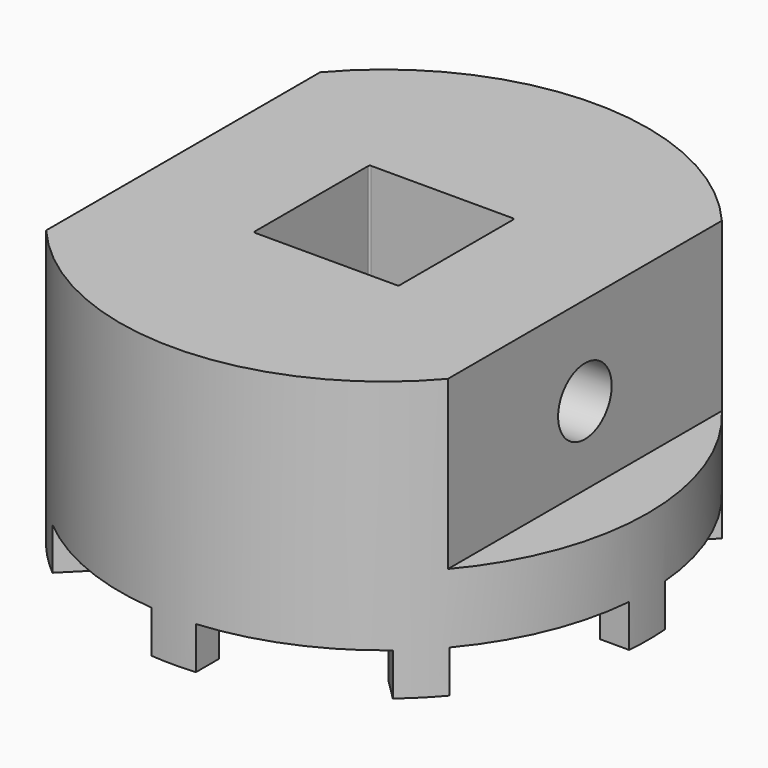
from build123d import *

# Parameters (mm, degrees)
F0_R      = 23.65
F1_DEPTH  = 25
F3_DEPTH  = 3.8
F5_DEPTH  = 15
F6_W      = 13
F6_H      = 13
F7_DEPTH  = 25.001
F8_R      = 0.15
F9_R      = 3
F10_DEPTH = 41.651


with BuildPart() as f1:
    # F0 (on Top) → F1 (new body)
    with BuildSketch(Plane.XY):
        Circle(F0_R)
    extrude(amount=F1_DEPTH)

    # F2 (on face) → F3 (cut)
    with BuildSketch(Plane(origin=(0, 0, 0), x_dir=(1, 0, 0), z_dir=(0, 0, -1))):
        with BuildLine():
            Line((-2, 20.954773), (-2, 23.565282))
            ThreePointArc((-2, 23.565282), (-9.050463, 21.849751), (-15.248957, 18.077384))
            Line((-15.248957, 18.077384), (-13.403048, 16.231475))
            ThreePointArc((-13.403048, 16.231475), (-8.055486, 19.447664), (-2, 20.954773))
        make_face()
        with BuildLine():
            ThreePointArc((21.05, 0), (21.02618, 1.001133), (20.954773, 2))
            ThreePointArc((20.954773, 2), (19.447664, 8.055486), (16.231475, 13.403048))
            ThreePointArc((16.231475, 13.403048), (14.884598, 14.884598), (13.403048, 16.231475))
            ThreePointArc((13.403048, 16.231475), (8.055486, 19.447664), (2, 20.954773))
            ThreePointArc((2, 20.954773), (0, 21.05), (-2, 20.954773))
            ThreePointArc((-2, 20.954773), (-8.055486, 19.447664), (-13.403048, 16.231475))
            ThreePointArc((-13.403048, 16.231475), (-14.884598, 14.884598), (-16.231475, 13.403048))
            ThreePointArc((-16.231475, 13.403048), (-19.447664, 8.055486), (-20.954773, 2))
            ThreePointArc((-20.954773, 2), (-21.05, 0), (-20.954773, -2))
            ThreePointArc((-20.954773, -2), (-19.447664, -8.055486), (-16.231475, -13.403048))
            ThreePointArc((-16.231475, -13.403048), (-14.884598, -14.884598), (-13.403048, -16.231475))
            ThreePointArc((-13.403048, -16.231475), (-8.055486, -19.447664), (-2, -20.954773))
            ThreePointArc((-2, -20.954773), (0, -21.05), (2, -20.954773))
            ThreePointArc((2, -20.954773), (8.055486, -19.447664), (13.403048, -16.231475))
            ThreePointArc((13.403048, -16.231475), (14.884598, -14.884598), (16.231475, -13.403048))
            ThreePointArc((16.231475, -13.403048), (19.447664, -8.055486), (20.954773, -2))
            ThreePointArc((20.954773, -2), (21.02618, -1.001133), (21.05, 0))
        make_face()
        with BuildLine():
            Line((-16.231475, 13.403048), (-18.077384, 15.248957))
            ThreePointArc((-18.077384, 15.248957), (-21.849751, 9.050463), (-23.565282, 2))
            Line((-23.565282, 2), (-20.954773, 2))
            ThreePointArc((-20.954773, 2), (-19.447664, 8.055486), (-16.231475, 13.403048))
        make_face()
        with BuildLine():
            ThreePointArc((-23.565282, -2), (-21.849751, -9.050463), (-18.077384, -15.248957))
            Line((-18.077384, -15.248957), (-16.231475, -13.403048))
            ThreePointArc((-16.231475, -13.403048), (-19.447664, -8.055486), (-20.954773, -2))
            Line((-20.954773, -2), (-23.565282, -2))
        make_face()
        with BuildLine():
            ThreePointArc((-15.248957, -18.077384), (-9.050463, -21.849751), (-2, -23.565282))
            Line((-2, -23.565282), (-2, -20.954773))
            ThreePointArc((-2, -20.954773), (-8.055486, -19.447664), (-13.403048, -16.231475))
            Line((-13.403048, -16.231475), (-15.248957, -18.077384))
        make_face()
        with BuildLine():
            ThreePointArc((2, -23.565282), (9.050463, -21.849751), (15.248957, -18.077384))
            Line((15.248957, -18.077384), (13.403048, -16.231475))
            ThreePointArc((13.403048, -16.231475), (8.055486, -19.447664), (2, -20.954773))
            Line((2, -20.954773), (2, -23.565282))
        make_face()
        with BuildLine():
            ThreePointArc((18.077384, -15.248957), (21.849751, -9.050463), (23.565282, -2))
            Line((23.565282, -2), (20.954773, -2))
            ThreePointArc((20.954773, -2), (19.447664, -8.055486), (16.231475, -13.403048))
            Line((16.231475, -13.403048), (18.077384, -15.248957))
        make_face()
        with BuildLine():
            Line((20.954773, 2), (23.565282, 2))
            ThreePointArc((23.565282, 2), (21.849751, 9.050463), (18.077384, 15.248957))
            Line((18.077384, 15.248957), (16.231475, 13.403048))
            ThreePointArc((16.231475, 13.403048), (19.447664, 8.055486), (20.954773, 2))
        make_face()
        with BuildLine():
            Line((13.403048, 16.231475), (15.248957, 18.077384))
            ThreePointArc((15.248957, 18.077384), (9.050463, 21.849751), (2, 23.565282))
            Line((2, 23.565282), (2, 20.954773))
            ThreePointArc((2, 20.954773), (8.055486, 19.447664), (13.403048, 16.231475))
        make_face()
    extrude(amount=-F3_DEPTH, mode=Mode.SUBTRACT)

    # F4 (on face) → F5 (cut)
    with BuildSketch(Plane.XY.offset(25)):
        with BuildLine():
            Line((-18, -15.340225), (-18, 15.340225))
            ThreePointArc((-18, 15.340225), (-23.65, 0), (-18, -15.340225))
        make_face()
        with BuildLine():
            Line((18, 15.340225), (18, -15.340225))
            ThreePointArc((18, -15.340225), (23.65, 0), (18, 15.340225))
        make_face()
    extrude(amount=-F5_DEPTH, mode=Mode.SUBTRACT)

    # F6 (on face) → F7 (cut, through all)
    with BuildSketch(Plane.XY.offset(25)):
        Rectangle(F6_W, F6_H)
    extrude(amount=-F7_DEPTH, mode=Mode.SUBTRACT)

    # F8
    f8_edges = [f1.edges().sort_by_distance(p)[0] for p in [
        (-6.5, 6.5, 14.4),
        (-6.5, -6.5, 14.4),
        (6.5, 6.5, 14.4),
        (6.5, -6.5, 14.4),
    ]]
    fillet(f8_edges, radius=F8_R)

    # F9 (on face) → F10 (cut, through all)
    with BuildSketch(Plane.YZ.offset(18)):
        with Locations((0, 17)):
            Circle(F9_R)
    extrude(amount=-F10_DEPTH, mode=Mode.SUBTRACT)


solid = f1.part
